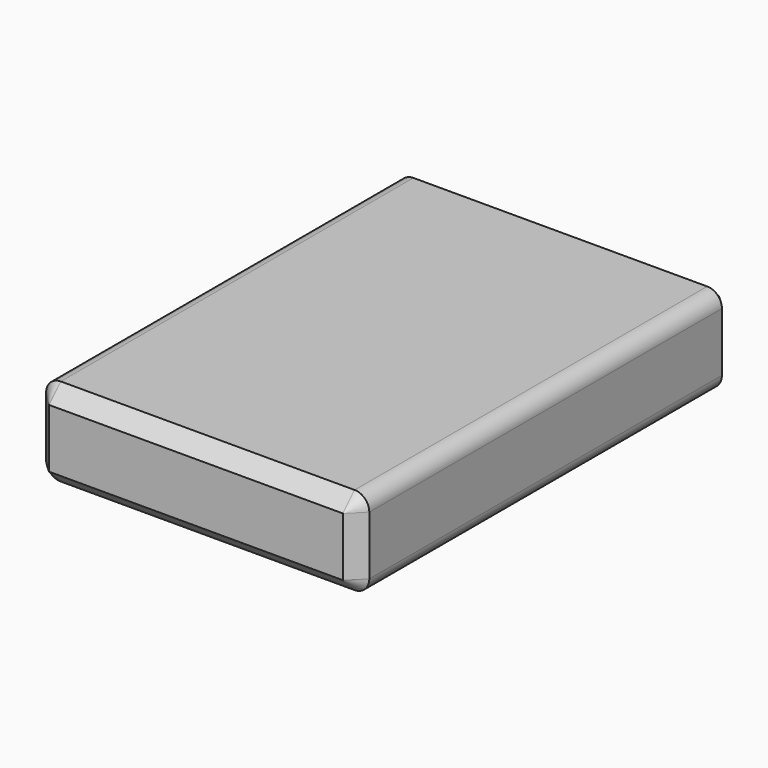
from build123d import *

# Parameters (mm, degrees)
F0_W     = 139.7
F0_H     = 38.1
F1_DEPTH = 203.2
F2_R     = 6.35
F3_SIZE  = 6.35
F4_SIZE  = 6.35
F5_R     = 6.35
F6_DEPTH = 2.54


with BuildPart() as f1:
    # F0 (on Front) → F1 (new body)
    with BuildSketch(Plane.XZ):
        Rectangle(F0_W, F0_H)
    extrude(amount=F1_DEPTH)

    # F2
    f2_edges = [f1.edges().sort_by_distance(p)[0] for p in [
        (-69.85, -101.6, 19.05),
        (-69.85, -101.6, -19.05),
        (69.85, -101.6, 19.05),
        (69.85, -101.6, -19.05),
    ]]
    fillet(f2_edges, radius=F2_R)

    # F3
    f3_edges = [f1.edges().sort_by_distance(p)[0] for p in [
        (0, -203.2, 19.05),
    ]]
    chamfer(f3_edges, length=F3_SIZE)

    # F4
    f4_edges = [f1.edges().sort_by_distance(p)[0] for p in [
        (0, 0, 19.05),
    ]]
    chamfer(f4_edges, length=F4_SIZE)

    # F5 (on face) → F6 (cut)
    with BuildSketch(Plane(origin=(0, 0, 0), x_dir=(-1, 0, 0), z_dir=(0, 1, 0))):
        with Locations((50.8, 0)):
            Circle(F5_R)
    extrude(amount=-F6_DEPTH, mode=Mode.SUBTRACT)


solid = f1.part
